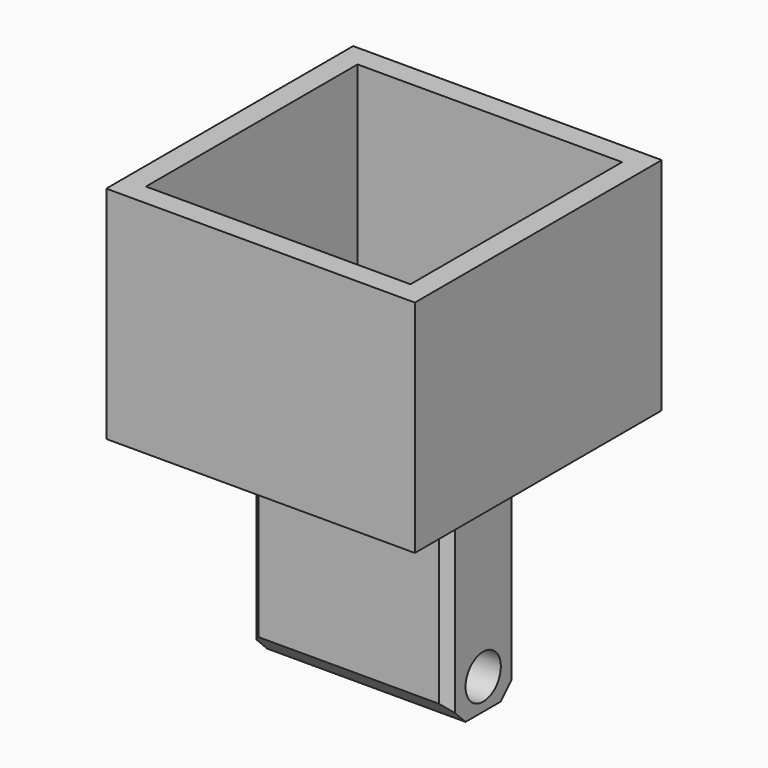
from build123d import *

# Parameters (mm, degrees)
F0_W     = 45
F0_H     = 20
F1_DEPTH = 50
F3_SIZE  = 2
F4_SIZE  = 5
F2_R     = 5
F5_DEPTH = 45
F6_W     = 70
F6_H     = 70
F7_DEPTH = 50
F8_W     = 60
F8_H     = 60
F9_DEPTH = 40


with BuildPart() as f1:
    # F0 (on Top) → F1 (new body)
    with BuildSketch(Plane.XY):
        Rectangle(F0_W, F0_H)
    extrude(amount=F1_DEPTH)

    # F3
    f3_edges = [f1.edges().sort_by_distance(p)[0] for p in [
        (-22.5, -10, 25),
        (-22.5, 10, 25),
        (22.5, -10, 25),
        (22.5, 10, 25),
    ]]
    chamfer(f3_edges, length=F3_SIZE)

    # F4
    f4_edges = [f1.edges().sort_by_distance(p)[0] for p in [
        (0, 10, 0),
        (0, -10, 0),
    ]]
    chamfer(f4_edges, length=F4_SIZE)

    # F2 (on face) → F5 (cut, through all)
    with BuildSketch(Plane(origin=(-22.5, 0, 0), x_dir=(0, -1, 0), z_dir=(-1, 0, 0))):
        with Locations((0, 7)):
            Circle(F2_R)
    extrude(amount=-F5_DEPTH, mode=Mode.SUBTRACT)

    # F6 (on face) → F7 (join)
    with BuildSketch(Plane.XY.offset(50)):
        Rectangle(F6_W, F6_H)
    extrude(amount=F7_DEPTH)

    # F8 (on face) → F9 (cut)
    with BuildSketch(Plane.XY.offset(100)):
        Rectangle(F8_W, F8_H)
    extrude(amount=-F9_DEPTH, mode=Mode.SUBTRACT)


solid = f1.part
